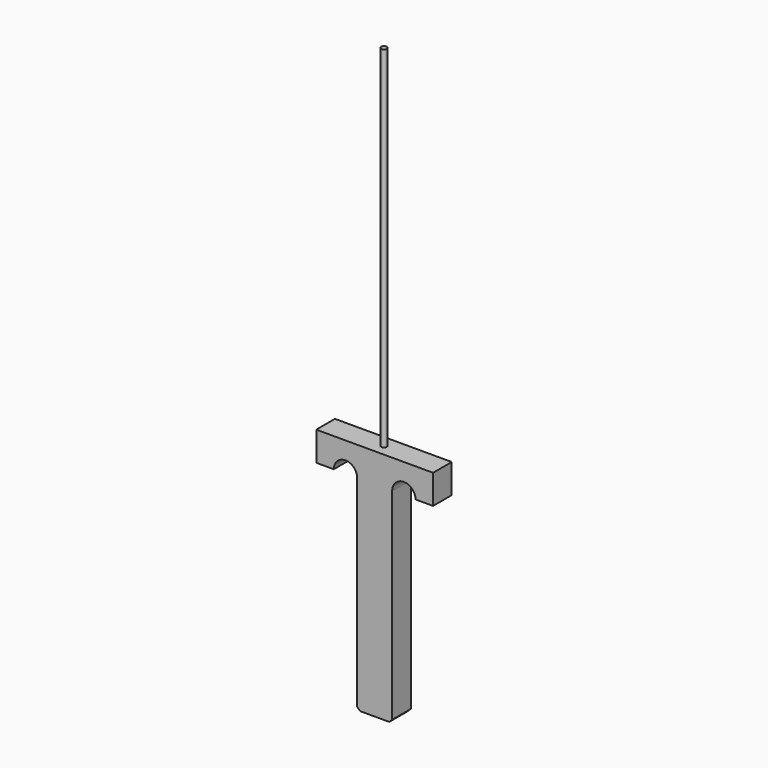
from build123d import *

# Parameters (mm, degrees)
CYLINDER_R     = 0.05
CYLINDER_DEPTH = 10
EXTRUDE_DEPTH  = 0.4


with BuildPart() as cylinder:
    # Cylinder → Cylinder (new body)
    with BuildSketch(Plane.XY):
        Circle(CYLINDER_R)
    extrude(amount=CYLINDER_DEPTH)


with BuildPart() as pinextrude001:
    # Sketch → Extrude (new body)
    with BuildSketch(Plane.XZ.offset(-0.2)):
        with BuildLine():
            Line((0, 0), (0.25, 0))
            Line((0.25, 0), (0.3, 0.05))
            Line((0.3, 0.05), (0.3, 3.5))
            ThreePointArc((0.7, 3.5), (0.5, 3.7), (0.3, 3.5))
            Line((0.7, 3.5), (1, 3.5))
            Line((1, 3.5), (1, 4))
            Line((0, 4), (1, 4))
            Line((-1, 4), (0, 4))
            Line((-1, 3.5), (-1, 4))
            Line((-0.7, 3.5), (-1, 3.5))
            ThreePointArc((-0.3, 3.5), (-0.5, 3.7), (-0.7, 3.5))
            Line((-0.3, 3.5), (-0.3, 0.05))
            Line((-0.25, 0), (-0.3, 0.05))
            Line((0, 0), (-0.25, 0))
        make_face()
    extrude(amount=EXTRUDE_DEPTH)


solid = Compound([cylinder.part, pinextrude001.part])
